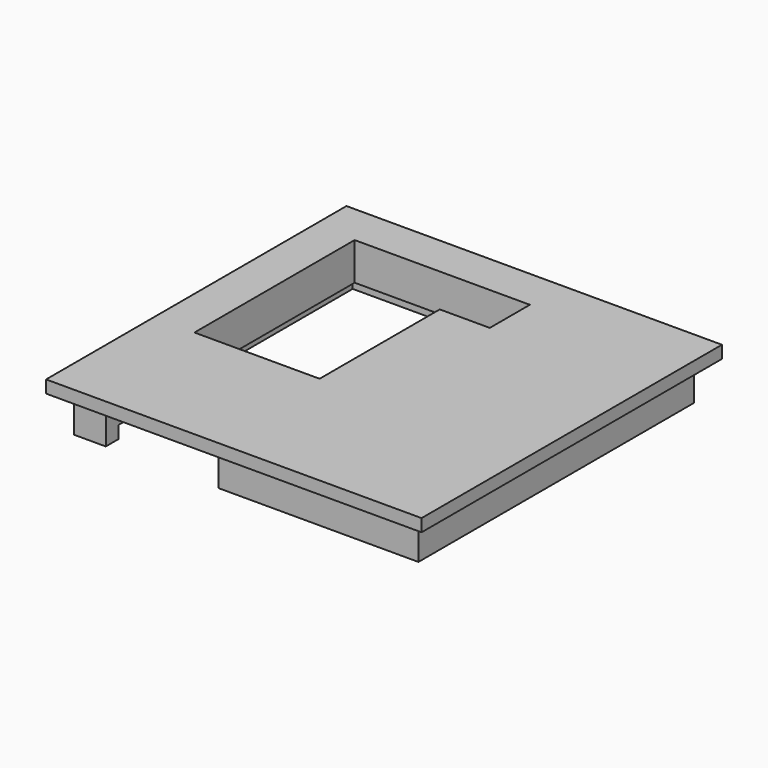
from build123d import *

# Parameters (mm, degrees)
SKETCH_W        = 60
SKETCH_H        = 60
PAD_DEPTH       = 2
SKETCH001_W     = 55
SKETCH001_H     = 55
PAD001_DEPTH    = 6
SKETCH002_W     = 50
SKETCH002_H     = 50
POCKET_DEPTH    = 2
SKETCH005_W     = 46
SKETCH005_H     = 46
POCKET003_DEPTH = 5
POCKET001_DEPTH = 8.001
SKETCH004_W     = 18
SKETCH004_H     = 5
POCKET002_DEPTH = 7


with BuildPart() as part:
    # Sketch → Pad (new body)
    with BuildSketch(Plane.XY):
        with Locations((30, 30)):
            Rectangle(SKETCH_W, SKETCH_H)
    extrude(amount=PAD_DEPTH)

    # Sketch001 (on DatumPlane) → Pad001 (join)
    with BuildSketch(Plane(origin=(0, 0, 0), x_dir=(1, 0, 0), z_dir=(0, 0, -1))):
        with Locations((30, -30)):
            Rectangle(SKETCH001_W, SKETCH001_H)
    extrude(amount=PAD001_DEPTH)

    # Sketch002 (on DatumPlane) → Pocket (cut)
    with BuildSketch(Plane(origin=(0, 0, -6), x_dir=(1, 0, 0), z_dir=(0, 0, -1))):
        with Locations((30, -30)):
            Rectangle(SKETCH002_W, SKETCH002_H)
    extrude(amount=-POCKET_DEPTH, mode=Mode.SUBTRACT)

    # Sketch005 (on DatumPlane) → Pocket003 (cut)
    with BuildSketch(Plane(origin=(0, 0, -4), x_dir=(1, 0, 0), z_dir=(0, 0, -1))):
        with Locations((30, -30)):
            Rectangle(SKETCH005_W, SKETCH005_H)
    extrude(amount=-POCKET003_DEPTH, mode=Mode.SUBTRACT)

    # Sketch003 (on Face5 of Pocket) → Pocket001 (cut, through all)
    with BuildSketch(Plane.XY.offset(2)):
        Polygon((6.54, 53.46), (34.54, 53.46), (34.54, 45.46), (26.54, 45.46), (26.54, 21.46), (6.54, 21.46), align=None)
    extrude(amount=-POCKET001_DEPTH, mode=Mode.SUBTRACT)

    # Sketch004 (on DatumPlane) → Pocket002 (cut)
    with BuildSketch(Plane(origin=(0, 0, -6), x_dir=(1, 0, 0), z_dir=(0, 0, -1))):
        with Locations((16.54, -5)):
            Rectangle(SKETCH004_W, SKETCH004_H)
    extrude(amount=-POCKET002_DEPTH, mode=Mode.SUBTRACT)


solid = part.part
